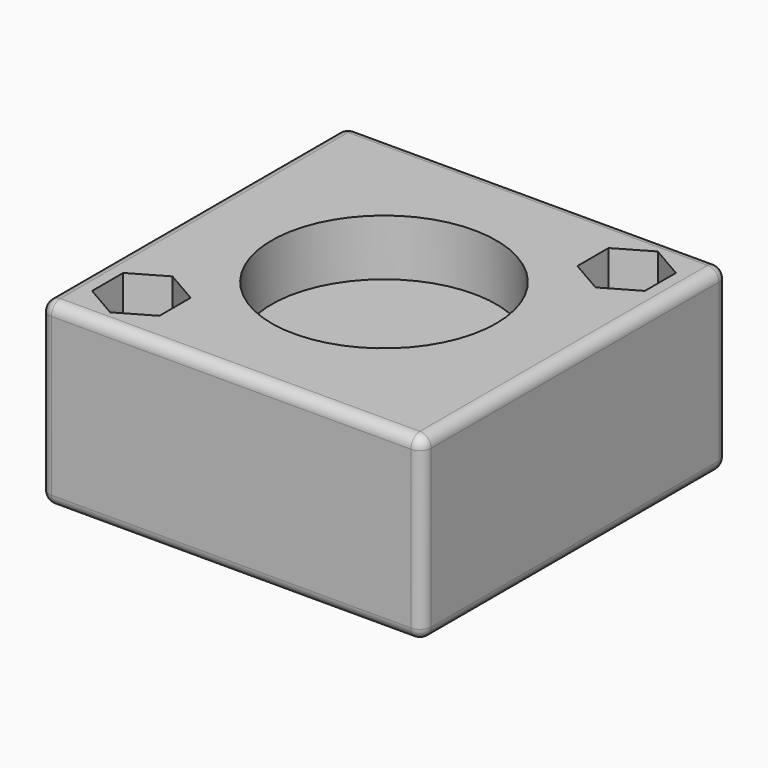
from build123d import *

# Parameters (mm, degrees)
F0_W     = 170
F0_H     = 170
F1_DEPTH = 80
F2_R     = 50
F3_DEPTH = 25
F4_R     = 5
F5_R     = 5


with BuildPart() as f1:
    # F0 (on Top) → F1 (new body)
    with BuildSketch(Plane.XY):
        Rectangle(F0_W, F0_H)
    extrude(amount=F1_DEPTH)

    # F2 (on face) → F3 (cut)
    with BuildSketch(Plane.XY.offset(80)):
        Circle(F2_R)
        Polygon((-75, -51.339746), (-75, -68.660254), (-60, -77.320508), (-45, -68.660254), (-45, -51.339746), (-60, -42.679492), align=None)
        Polygon((75, 51.339746), (75, 68.660254), (60, 77.320508), (45, 68.660254), (45, 51.339746), (60, 42.679492), align=None)
    extrude(amount=-F3_DEPTH, mode=Mode.SUBTRACT)

    # F4
    f4_edges = [f1.edges().sort_by_distance(p)[0] for p in [
        (85, -85, 40),
        (85, 85, 40),
        (-85, 85, 40),
        (-85, -85, 40),
    ]]
    fillet(f4_edges, radius=F4_R)

    # F5
    f5_edges = [f1.edges().sort_by_distance(p)[0] for p in [
        (-85, 0, 80),
        (85, 0, 0),
    ]]
    fillet(f5_edges, radius=F5_R)


solid = f1.part
